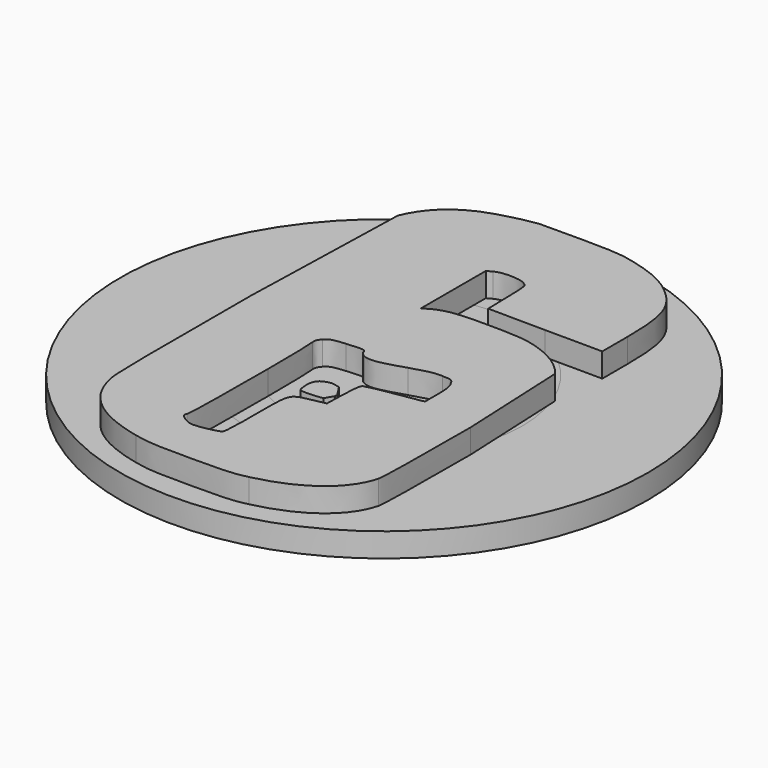
from build123d import *

# Parameters (mm, degrees)
F0_R     = 5.75
F0_R_2   = 4.05
F1_DEPTH = 2
F0_R_3   = 11
F2_DEPTH = 1
F3_DEPTH = 4.5
F5_DEPTH = 1


with BuildPart() as f1:
    # F0 (on Top) → F1 (new body)
    with BuildSketch(Plane.XY):
        Circle(F0_R)
        Circle(F0_R_2, mode=Mode.SUBTRACT)
    extrude(amount=-F1_DEPTH)


with BuildPart() as f2:
    # F0 (on Top) → F2 (new body)
    with BuildSketch(Plane.XY):
        Circle(F0_R_3)
        Circle(F0_R, mode=Mode.SUBTRACT)
    extrude(amount=-F2_DEPTH)


with BuildPart() as f3:
    # F0 (on Top) → F3 (new body)
    with BuildSketch(Plane.XY):
        Circle(F0_R_2)
    extrude(amount=-F3_DEPTH)


with BuildPart() as f5:
    # F4 (on face) → F5 (new body)
    with BuildSketch(Plane.XY):
        with BuildLine():
            add(Edge.make_bspline(
                [(-3.584369, 9.448104), (-4.509891, 9.049578), (-5.106509, 8.451788), (-5.481308, 7.568387)],
                knots=[0, 0, 0, 0, 1, 1, 1, 1], degree=3))
            Line((-5.481308, 7.568387), (-5.687829, 0.149149))
            add(Edge.make_bspline(
                [(-5.687829, 0.149149), (-5.703127, -5.901815), (-5.695478, -6.898131), (-5.588393, -7.316584)],
                knots=[0, 0, 0, 0, 1, 1, 1, 1], degree=3))
            add(Edge.make_bspline(
                [(-5.588393, -7.316584), (-5.274786, -8.651649), (-4.30337, -9.428776), (-2.452324, -9.847229)],
                knots=[0, 0, 0, 0, 1, 1, 1, 1], degree=3))
            add(Edge.make_bspline(
                [(-2.452324, -9.847229), (-1.83276, -9.986713), (-1.595642, -9.999997), (-0.081151, -9.999997)],
                knots=[0, 0, 0, 0, 1, 1, 1, 1], degree=3))
            add(Edge.make_bspline(
                [(-0.081151, -9.999997), (1.418043, -9.999997), (1.670458, -9.980071), (2.251778, -9.847229)],
                knots=[0, 0, 0, 0, 1, 1, 1, 1], degree=3))
            add(Edge.make_bspline(
                [(2.251778, -9.847229), (4.079877, -9.428776), (5.29606, -8.505522), (5.609666, -7.3033)],
                knots=[0, 0, 0, 0, 1, 1, 1, 1], degree=3))
            add(Edge.make_bspline(
                [(5.609666, -7.3033), (5.663209, -7.123963), (5.693805, -5.337235), (5.693805, -2.620612)],
                knots=[0, 0, 0, 0, 1, 1, 1, 1], degree=3))
            Line((5.693805, -2.620612), (5.479634, 2.062077))
            add(Edge.make_bspline(
                [(5.479634, 2.062077), (5.043644, 2.646583), (4.316994, 3.071678), (3.360876, 3.284225)],
                knots=[0, 0, 0, 0, 1, 1, 1, 1], degree=3))
            add(Edge.make_bspline(
                [(3.360876, 3.284225), (3.1553689934, 3.3294673822), (2.7253242209, 3.360442913), (2.238191116, 3.3753519118)],
                knots=[0, 0, 0, 0, 0.378413675, 0.378413675, 0.378413675, 0.378413675], degree=3))
            ThreePointArc((2.238191116, 3.3753519118), (3.5684151958, 1.9154406778), (4.05, 0))
            ThreePointArc((4.05, 0), (3.1972082334, -2.4860328864), (0.9979706111, -3.9251184262))
            Line((0.9979706111, -3.9251184262), (0.989702, -4.214718))
            Line((0.989702, -4.214718), (0.477223, -4.320992))
            add(Edge.make_bspline(
                [(0.477223, -4.320992), (-0.387109, -4.500329), (-0.348864, -4.420624), (-0.348864, -6.247204)],
                knots=[0, 0, 0, 0, 1, 1, 1, 1], degree=3))
            add(Edge.make_bspline(
                [(-0.348864, -6.247204), (-0.348864, -7.4295), (-0.371811, -7.841311), (-0.440651, -7.887806)],
                knots=[0, 0, 0, 0, 1, 1, 1, 1], degree=3))
            add(Edge.make_bspline(
                [(-0.440651, -7.887806), (-0.570683, -7.974153), (-1.197897, -8.106996), (-1.488557, -8.106996)],
                knots=[0, 0, 0, 0, 1, 1, 1, 1], degree=3))
            add(Edge.make_bspline(
                [(-1.488557, -8.106996), (-1.618589, -8.106996), (-1.809813, -8.033932), (-1.947494, -7.934301)],
                knots=[0, 0, 0, 0, 1, 1, 1, 1], degree=3))
            add(Edge.make_bspline(
                [(-1.947494, -7.934301), (-2.146366, -7.794816), (-2.169313, -7.74168), (-2.100473, -7.635406)],
                knots=[0, 0, 0, 0, 1, 1, 1, 1], degree=3))
            add(Edge.make_bspline(
                [(-2.100473, -7.635406), (-2.0543800597, -7.5553552956), (-2.0249525069, -5.3335056257), (-2.0272542069, -3.5061004522)],
                knots=[0, 0, 0, 0, 0.6026008669, 0.6026008669, 0.6026008669, 0.6026008669], degree=3))
            ThreePointArc((-2.0272542069, -3.5061004522), (-3.9971554901, 0.652110411), (-0.807801, 3.9686216177))
            Line((-0.807801, 3.9686216177), (-0.807801, 4.612647))
            Line((-0.807801, 4.612647), (-0.807801, 6.306386))
            Line((-0.807801, 6.306386), (-0.601279, 6.419302))
            add(Edge.make_bspline(
                [(-0.601279, 6.419302), (-0.325917, 6.578712), (0.393084, 6.578712), (0.668446, 6.419302)],
                knots=[0, 0, 0, 0, 1, 1, 1, 1], degree=3))
            add(Edge.make_bspline(
                [(0.668446, 6.419302), (0.867319, 6.306386), (0.867319, 6.306386), (0.890266, 5.290143)],
                knots=[0, 0, 0, 0, 1, 1, 1, 1], degree=3))
            Line((0.890266, 5.290143), (5.693805, 5.555827))
            add(Edge.make_bspline(
                [(5.693805, 5.555827), (5.693805, 7.428903), (5.471985, 8.086472), (4.615303, 8.83703)],
                knots=[0, 0, 0, 0, 1, 1, 1, 1], degree=3))
            add(Edge.make_bspline(
                [(4.615303, 8.83703), (4.125771, 9.27541), (3.529153, 9.554378), (2.580683, 9.800136)],
                knots=[0, 0, 0, 0, 1, 1, 1, 1], degree=3))
            add(Edge.make_bspline(
                [(2.580683, 9.800136), (1.961118, 9.959547), (1.777544, 9.979473), (0.301297, 9.992758)],
                knots=[0, 0, 0, 0, 1, 1, 1, 1], degree=3))
            add(Edge.make_bspline(
                [(0.301297, 9.992758), (-0.578332, 10.006042), (-1.404419, 9.9994), (-1.534451, 9.986116)],
                knots=[0, 0, 0, 0, 1, 1, 1, 1], degree=3))
            add(Edge.make_bspline(
                [(-1.534451, 9.986116), (-2.169313, 9.899768), (-3.117783, 9.65401), (-3.584369, 9.448104)],
                knots=[0, 0, 0, 0, 1, 1, 1, 1], degree=3))
        make_face()
        Polygon((5.693805, 4.247331), (5.693805, 5.555827), (0.890266, 5.290143), (0.913213, 4.280542), (3.307333, 4.260616), align=None)
        with BuildLine():
            ThreePointArc((4.05, 0), (3.5684151958, 1.9154406778), (2.238191116, 3.3753519118))
            add(Edge.make_bspline(
                [(2.238191116, 3.3753519118), (1.4380210999, 3.3998415916), (0.4838170762, 3.3809810415), (0.117722, 3.310794)],
                knots=[0.378413675, 0.378413675, 0.378413675, 0.378413675, 1, 1, 1, 1], degree=3))
            add(Edge.make_bspline(
                [(0.117722, 3.310794), (-0.096449, 3.270941), (-0.387109, 3.171309), (-0.540087, 3.084962)],
                knots=[0, 0, 0, 0, 1, 1, 1, 1], degree=3))
            Line((-0.540087, 3.084962), (-0.807801, 2.925551))
            Line((-0.807801, 2.925551), (-0.807801, 3.9686216177))
            ThreePointArc((-0.807801, 3.9686216177), (-3.9971554901, 0.652110411), (-2.0272542069, -3.5061004522))
            add(Edge.make_bspline(
                [(-2.0272542069, -3.5061004522), (-2.0287721164, -2.3009756809), (-2.0440892343, -1.2673967641), (-2.077526, -1.132779)],
                knots=[0.6026008669, 0.6026008669, 0.6026008669, 0.6026008669, 1, 1, 1, 1], degree=3))
            add(Edge.make_bspline(
                [(-2.077526, -1.132779), (-2.100473, -1.019863), (-2.054579, -0.906947), (-1.939845, -0.780747)],
                knots=[0, 0, 0, 0, 1, 1, 1, 1], degree=3))
            add(Edge.make_bspline(
                [(-1.939845, -0.780747), (-1.786866, -0.621336), (-1.68743, -0.588126), (-1.159652, -0.541631)],
                knots=[0, 0, 0, 0, 1, 1, 1, 1], degree=3))
            add(Edge.make_bspline(
                [(-1.159652, -0.541631), (-0.509492, -0.47521), (-0.348864, -0.495136), (-0.348864, -0.641263)],
                knots=[0, 0, 0, 0, 1, 1, 1, 1], degree=3))
            add(Edge.make_bspline(
                [(-0.348864, -0.641263), (-0.348864, -0.687757), (-0.264725, -0.780747), (-0.15764, -0.840526)],
                knots=[0, 0, 0, 0, 1, 1, 1, 1], degree=3))
            add(Edge.make_bspline(
                [(-0.15764, -0.840526), (0.102424, -0.986652), (0.484872, -0.933515), (1.486884, -0.60141)],
                knots=[0, 0, 0, 0, 1, 1, 1, 1], degree=3))
            add(Edge.make_bspline(
                [(1.486884, -0.60141), (2.121746, -0.395504), (2.38181, -0.342368), (2.710715, -0.355652)],
                knots=[0, 0, 0, 0, 1, 1, 1, 1], degree=3))
            add(Edge.make_bspline(
                [(2.710715, -0.355652), (3.108461, -0.368936), (3.139056, -0.38222), (3.261439, -0.60141)],
                knots=[0, 0, 0, 0, 1, 1, 1, 1], degree=3))
            add(Edge.make_bspline(
                [(3.261439, -0.60141), (3.368525, -0.774105), (3.399121, -0.999937), (3.399121, -1.478169)],
                knots=[0, 0, 0, 0, 1, 1, 1, 1], degree=3))
            Line((3.399121, -1.478169), (3.399121, -2.115811))
            Line((3.399121, -2.115811), (3.192599, -2.155664))
            add(Edge.make_bspline(
                [(3.192599, -2.155664), (3.070216, -2.17559), (2.580683, -2.255296), (2.098799, -2.335001)],
                knots=[0, 0, 0, 0, 1, 1, 1, 1], degree=3))
            add(Edge.make_bspline(
                [(2.098799, -2.335001), (1.616916, -2.408064), (1.180926, -2.507696), (1.127383, -2.540906)],
                knots=[0, 0, 0, 0, 1, 1, 1, 1], degree=3))
            add(Edge.make_bspline(
                [(1.127383, -2.540906), (1.066192, -2.587401), (1.027947, -2.879654), (1.012649, -3.411023)],
                knots=[0, 0, 0, 0, 1, 1, 1, 1], degree=3))
            Line((1.012649, -3.411023), (0.9979706111, -3.9251184262))
            ThreePointArc((0.9979706111, -3.9251184262), (3.1972082334, -2.4860328864), (4.05, 0))
        make_face()
    extrude(amount=F5_DEPTH)


with BuildPart() as f5b:
    # F4 (on face) → F5, piece 2 (new body)
    with BuildSketch(Plane.XY):
        with BuildLine():
            add(Edge.make_bspline(
                [(-0.348864, -3.623571), (-0.348864, -3.809276143), (-0.3107315498, -3.9949812859), (-0.2573124292, -4.0418176992)],
                knots=[0, 0, 0, 0, 0.9985274841, 0.9985274841, 0.9985274841, 0.9985274841], degree=3))
            ThreePointArc((-0.2573124292, -4.0418176992), (0.2074378073, -4.0446841108), (0.6694563399, -3.9942869462))
            Line((0.6694563399, -3.9942869462), (0.8745343363, -3.6457520987))
            add(Edge.make_bspline(
                [(0.8745343363, -3.6457520987), (0.8748884536, -3.6100955301), (0.874968, -3.5717715771), (0.874968, -3.530581)],
                knots=[0.9278904225, 0.9278904225, 0.9278904225, 0.9278904225, 1, 1, 1, 1], degree=3))
            Line((0.874968, -3.530581), (0.576659, -3.072275))
            add(Edge.make_bspline(
                [(0.576659, -3.072275), (0.263052, -2.985928), (0.209509, -2.985928), (0.033584, -3.039065)],
                knots=[0, 0, 0, 0, 1, 1, 1, 1], degree=3))
            add(Edge.make_bspline(
                [(0.033584, -3.039065), (-0.249427, -3.132054), (-0.348864, -3.278181), (-0.348864, -3.623571)],
                knots=[0, 0, 0, 0, 1, 1, 1, 1], degree=3))
        make_face()
    extrude(amount=F5_DEPTH)


solid = Compound([f1.part, f2.part, f3.part, f5.part, f5b.part])
